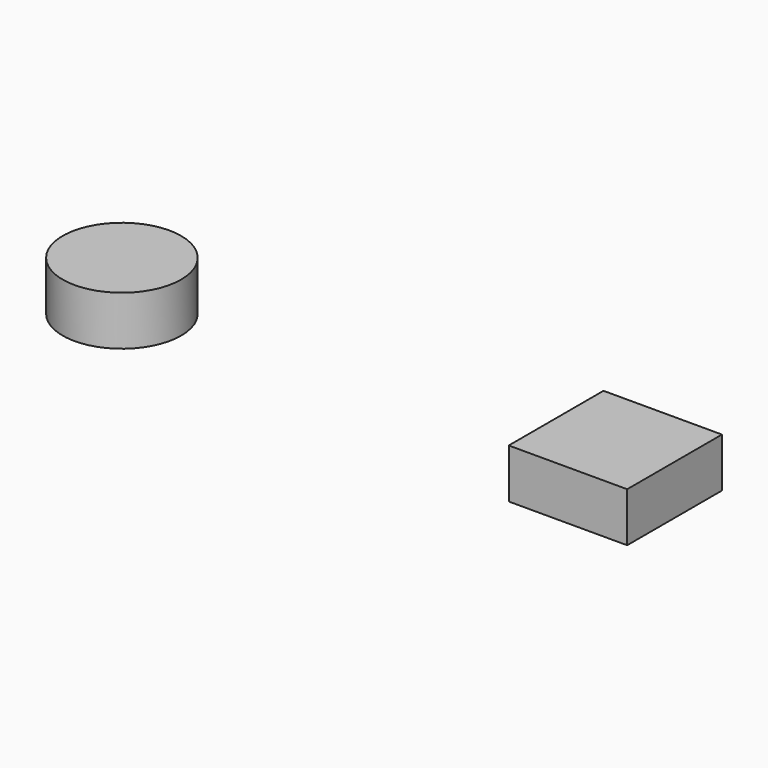
from build123d import *

# Parameters (mm, degrees)
F0_R     = 1.2
F0_W     = 2.4
F0_H     = 2.4
F1_DEPTH = 1


with BuildPart() as f1:
    # F0 (on Top) → F1 (new body)
    with BuildSketch(Plane.XY):
        Circle(F0_R)
        with Locations((10, 0)):
            Rectangle(F0_W, F0_H)
    extrude(amount=F1_DEPTH)


solid = f1.part
